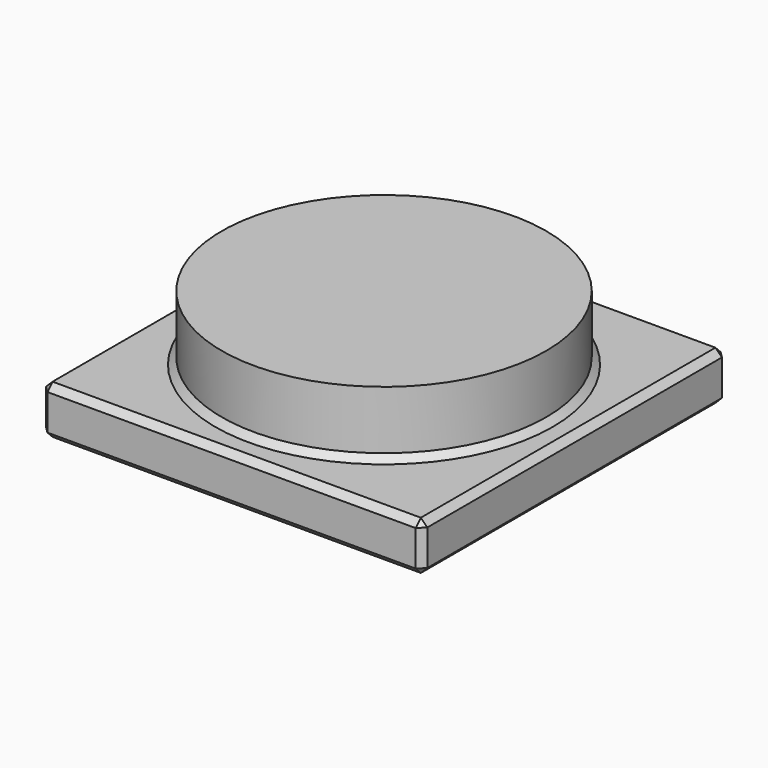
from build123d import *

# Parameters (mm, degrees)
SKETCH_W     = 470
SKETCH_H     = 470
PAD_DEPTH    = 60
SKETCH001_R  = 200
PAD001_DEPTH = 80
CHAMFER_SIZE = 8


with BuildPart() as part:
    # Sketch → Pad (new body)
    with BuildSketch(Plane.XY):
        Rectangle(SKETCH_W, SKETCH_H)
    extrude(amount=PAD_DEPTH)

    # Sketch001 (on Face6 of Pad) → Pad001 (join)
    with BuildSketch(Plane.XY.offset(60)):
        Circle(SKETCH001_R)
    extrude(amount=PAD001_DEPTH)

    # Chamfer
    chamfer_edges = [part.edges().sort_by_distance(p)[0] for p in [
        (0, -235, 60),
        (-235, 0, 60),
        (235, 0, 60),
        (0, 235, 60),
        (-200, 0, 60),
        (-235, -235, 30),
        (235, -235, 30),
        (0, -235, 0),
        (235, 0, 0),
        (0, 235, 0),
        (-235, 0, 0),
        (235, 235, 30),
        (-235, 235, 30),
    ]]
    chamfer(chamfer_edges, length=CHAMFER_SIZE)


solid = part.part
